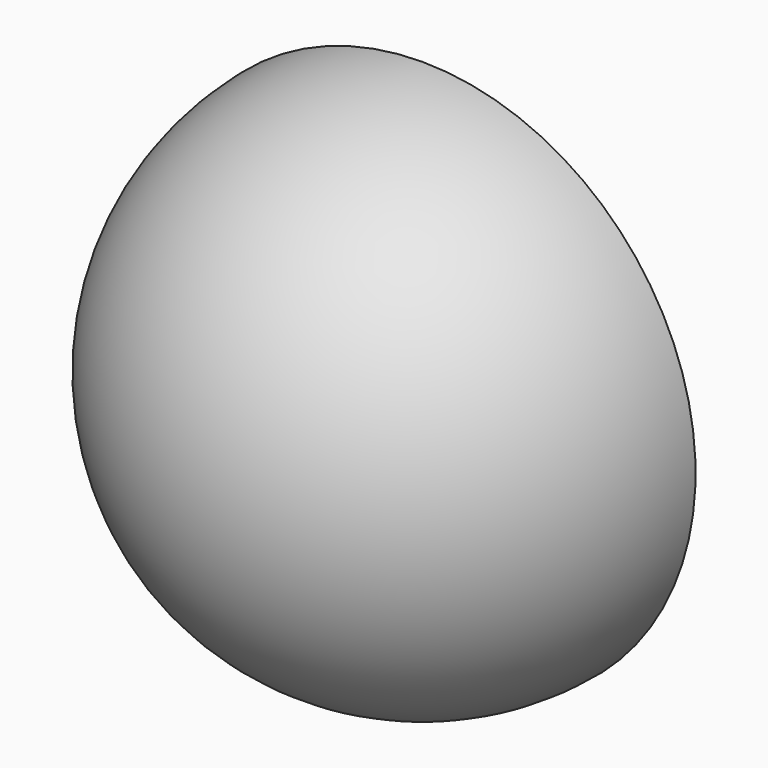
from build123d import *

# Parameters (mm, degrees)
F1_ANGLE = -180
F2_T     = -2.54


with BuildPart() as f1:
    # F0 (on Front) → F1 (revolve)
    with BuildSketch(Plane.XZ):
        with BuildLine():
            Line((0, 0), (0, -19.05))
            ThreePointArc((0, -19.05), (19.05, 0), (0, 19.05))
            Line((0, 19.05), (0, 0))
        make_face()
    revolve(axis=Axis((0, 0, 30.36524), (0, 0, 1)), revolution_arc=F1_ANGLE)

    # F2
    f2_openings = [f1.faces().sort_by_distance(p)[0] for p in [
        (0, 0, 0),
    ]]
    offset(amount=F2_T, openings=f2_openings)


solid = f1.part
